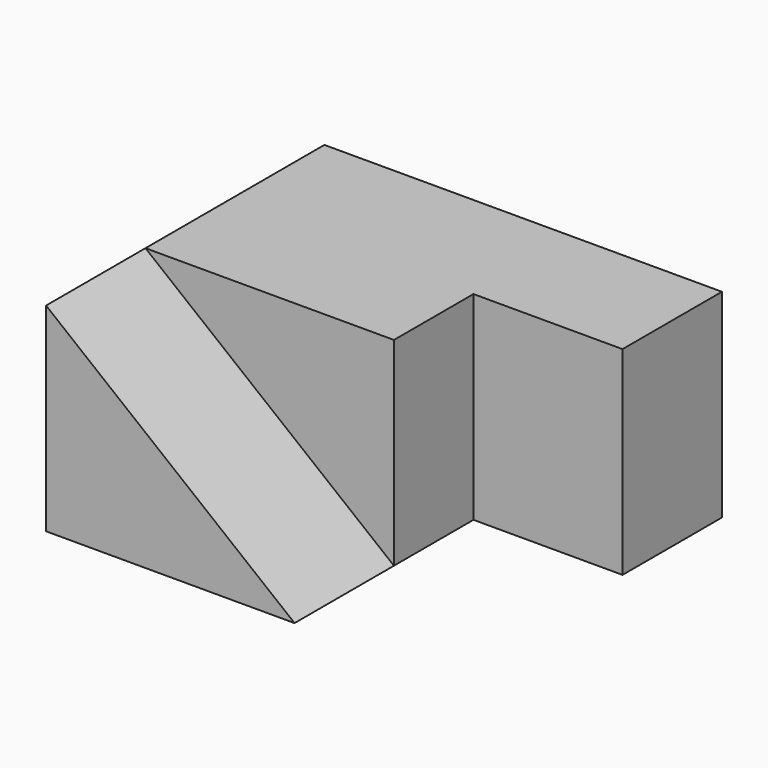
from build123d import *

# Parameters (mm, degrees)
F1_DEPTH = 25
F3_DEPTH = 40


with BuildPart() as f1:
    # F0 (on Front) → F1 (new body)
    with BuildSketch(Plane.XZ):
        Polygon((0, 40), (0, 0), (50, 0), align=None)
    extrude(amount=F1_DEPTH)

    # F2 (on Top) → F3 (join)
    with BuildSketch(Plane.XY):
        Polygon((0, 45), (0, 0), (50, 0), (50, 20), (80, 20), (80, 45), align=None)
    extrude(amount=F3_DEPTH)


solid = f1.part
